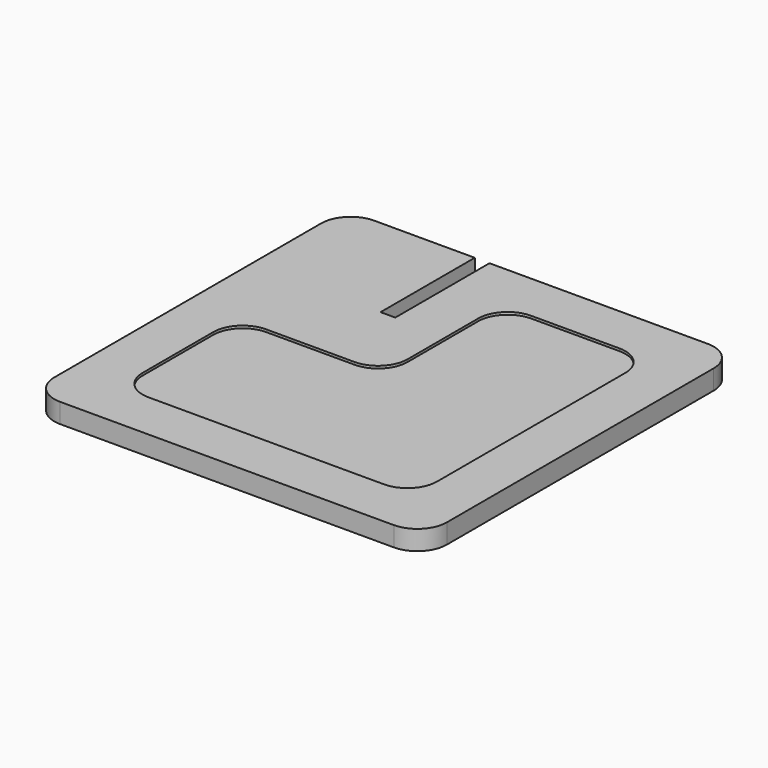
from build123d import *

# Parameters (mm, degrees)
F6_W     = 508
F6_H     = 508
F7_DEPTH = 25.4
F8_W     = 19.05
F8_H     = 152.4
F9_DEPTH = 25.4
F0_R     = 38.1
F2_DEPTH = 3.175
F3_R     = 38.1
F5_D     = 3.175
F5_DEPTH = 63.5
F5_TIP   = 0.9538662327


with BuildPart() as f7:
    # F6 (on Top) → F7 (new body)
    with BuildSketch(Plane.XY):
        Rectangle(F6_W, F6_H)
    extrude(amount=F7_DEPTH)

    # F8 (on face) → F9 (cut)
    with BuildSketch(Plane.XY.offset(25.4)):
        with Locations((-76.2, 177.8)):
            Rectangle(F8_W, F8_H)
    extrude(amount=-F9_DEPTH, mode=Mode.SUBTRACT)

    # F0
    f0_edges = [f7.edges().sort_by_distance(p)[0] for p in [
        (254, -254, 12.7),
        (254, 254, 12.7),
        (-254, 254, 12.7),
        (-254, -254, 12.7),
    ]]
    fillet(f0_edges, radius=F0_R)

    # F1 (on face) → F2 (cut)
    with BuildSketch(Plane.XY.offset(25.4)):
        Polygon((190.5, 190.5), (0, 190.5), (0, 0), (-190.5, 0), (-190.5, -190.5), (190.5, -190.5), align=None)
    extrude(amount=-F2_DEPTH, mode=Mode.SUBTRACT)

    # F3
    f3_edges = [f7.edges().sort_by_distance(p)[0] for p in [
        (0, 0, 23.8125),
        (0, 190.5, 23.8125),
        (190.5, 190.5, 23.8125),
        (-190.5, -190.5, 23.8125),
        (190.5, -190.5, 23.8125),
        (-190.5, 0, 23.8125),
    ]]
    fillet(f3_edges, radius=F3_R)

    # F5
    with Locations(Plane(origin=(0, 254, 0), x_dir=(-1, 0, 0), z_dir=(0, 1, 0))):
        with Locations((-12.7, 12.7), (165.1, 12.7)):
            Hole(F5_D / 2, depth=F5_DEPTH)
            with Locations((0, 0, -(F5_DEPTH + F5_TIP / 2))):  # 118° drill point
                Cone(0, F5_D / 2, F5_TIP, mode=Mode.SUBTRACT)


solid = f7.part
